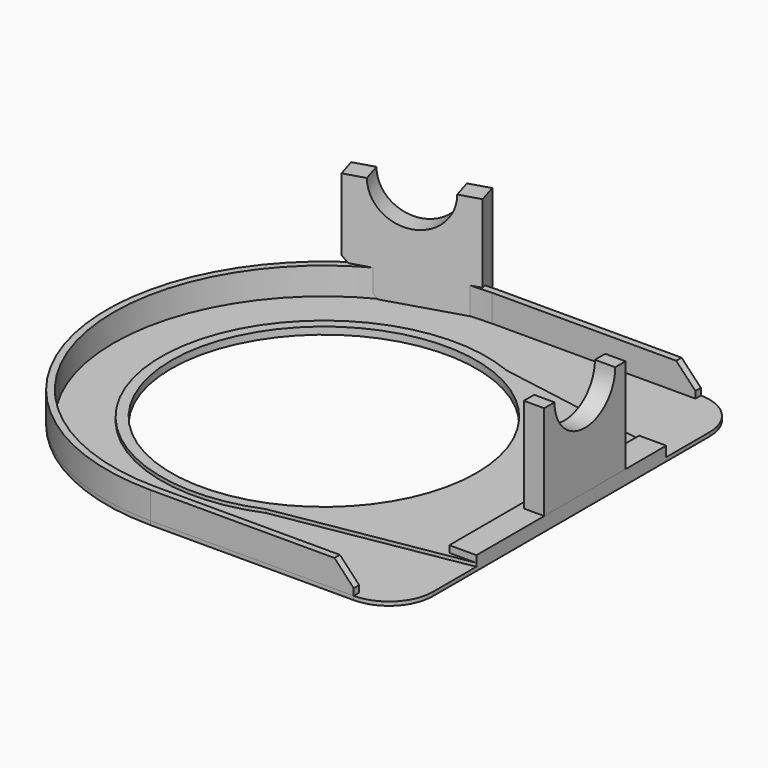
from build123d import *

# Parameters (mm, degrees)
PAD001_DEPTH      = 8
POCKET005_DEPTH   = 128.0010000001
SKETCH020_W       = 6
SKETCH020_H       = 30
PAD004_DEPTH      = 31
SKETCH021_R       = 11.2
POCKET_DEPTH      = 6.001
PAD005_DEPTH      = 31
PAD005_DEPTH_BACK = 1
SKETCH022_R       = 11.2
POCKET006_DEPTH   = 15.7868758107
POCKET007_DEPTH   = 6
SKETCH001_R       = 45
PAD_DEPTH         = 1.12
SKETCH_W          = 8
SKETCH_H          = 70
PAD003_DEPTH      = 3
SKETCH024_R       = 48
PAD006_DEPTH      = 1
SKETCH025_R       = 45
POCKET008_DEPTH   = 2.121
PAD007_DEPTH      = 1
SKETCH027_R       = 45
POCKET009_DEPTH   = 2.121


with BuildPart() as bevel_connector:
    # Sketch002 → Pad001 (new body)
    with BuildSketch(Plane.XY):
        with BuildLine():
            Line((60, 64), (0, 64))
            ThreePointArc((0, 64), (-63.9999355288, 0), (0, -64))
            Line((60, -64), (0, -64))
            Line((60, -62), (60, -64))
            Line((0, -62), (60, -62))
            ThreePointArc((0, 62), (-61.9999854046, 0), (0, -62))
            Line((0, 62), (60, 62))
            Line((60, 64), (60, 62))
        make_face()
    extrude(amount=PAD001_DEPTH)

    # Sketch011 → Pocket005 (cut, through all)
    with BuildSketch(Plane(origin=(0, 64, 0), x_dir=(-1, 0, 0), z_dir=(0, 1, 0))):
        Polygon((-53.9525, 8.40024), (-64.2022626889, 10.8364072587), (-61.1871640783, 0.741768758), align=None)
    extrude(amount=-POCKET005_DEPTH, mode=Mode.SUBTRACT)


with BuildPart() as obj1:
    # Sketch020 → Pad004 (new body)
    with BuildSketch(Plane.XY):
        with Locations((70, 5)):
            Rectangle(SKETCH020_W, SKETCH020_H)
    extrude(amount=PAD004_DEPTH)

    # Sketch021 → Pocket (cut, through all)
    with BuildSketch(Plane.YZ.offset(73)):
        with Locations((5, 31)):
            Circle(SKETCH021_R)
    extrude(amount=-POCKET_DEPTH, mode=Mode.SUBTRACT)


with BuildPart() as obj2:
    # Sketch017 → Pad005 (new body, two sides)
    with BuildSketch(Plane.XY) as pad005_sk:
        Polygon((-4.9761521334, 68.3190157273), (-38.4468185922, 58.086006062), (-36.6925883638, 52.3481775262), (-3.2219219051, 62.5811871915), align=None)
    extrude(amount=PAD005_DEPTH)
    extrude(pad005_sk.sketch, amount=-PAD005_DEPTH_BACK)

    # Sketch022 → Pocket006 (cut, through all)
    with BuildSketch(Plane(origin=(-19.5271219074, 63.8703378224, 0), x_dir=(-0.956304756, -0.2923717047, 0), z_dir=(-0.2923717047, 0.956304756, 0))):
        with Locations((2.2841708584, 31)):
            Circle(SKETCH022_R)
    extrude(amount=-POCKET006_DEPTH, mode=Mode.SUBTRACT)

    # Sketch023 → Pocket007 (cut)
    with BuildSketch(Plane(origin=(-19.5271219074, 63.8703378224, 0), x_dir=(-0.956304756, -0.2923717047, 0), z_dir=(-0.2923717047, 0.956304756, 0))):
        Polygon((31.7540235497, 22.6567880743), (10.7035, 0), (40.8501158154, -6.9018941198), align=None)
    extrude(amount=-POCKET007_DEPTH, mode=Mode.SUBTRACT)


with BuildPart() as obj3:
    # Sketch001 → Pad (new body)
    with BuildSketch(Plane.XY):
        with BuildLine():
            Line((60, 64), (0, 64))
            ThreePointArc((0, 63.9999999999), (-63.9999178097, 0), (0, -63.9999999999))
            Line((60, -63.9999999999), (0, -63.9999999999))
            ThreePointArc((60, -64), (69.1923881554, -60.1923881554), (73, -51))
            Line((73, 51), (73, -51))
            ThreePointArc((73, 51), (69.1923881554, 60.1923881554), (60, 64))
        make_face()
        Circle(SKETCH001_R, mode=Mode.SUBTRACT)
    extrude(amount=-PAD_DEPTH)

    # Sketch → Pad003 (new body)
    with BuildSketch(Plane.XY):
        with Locations((69, 0)):
            Rectangle(SKETCH_W, SKETCH_H)
    extrude(amount=PAD003_DEPTH)

    # Sketch024 → Pad006 (new body)
    with BuildSketch(Plane.XY):
        Circle(SKETCH024_R)
    extrude(amount=PAD006_DEPTH)

    # Sketch025 → Pocket008 (cut, through all)
    with BuildSketch(Plane.XY.offset(1)):
        Circle(SKETCH025_R)
    extrude(amount=-POCKET008_DEPTH, mode=Mode.SUBTRACT)

    # Sketch026 → Pad007 (new body)
    with BuildSketch(Plane.XY):
        Polygon((0, 47.5), (73, 35), (73, -35), (0, -47.5), align=None)
    extrude(amount=PAD007_DEPTH)

    # Sketch027 → Pocket009 (cut, through all)
    with BuildSketch(Plane.XY.offset(1)):
        Circle(SKETCH027_R)
    extrude(amount=-POCKET009_DEPTH, mode=Mode.SUBTRACT)


solid = Compound([bevel_connector.part, obj1.part, obj2.part, obj3.part])
